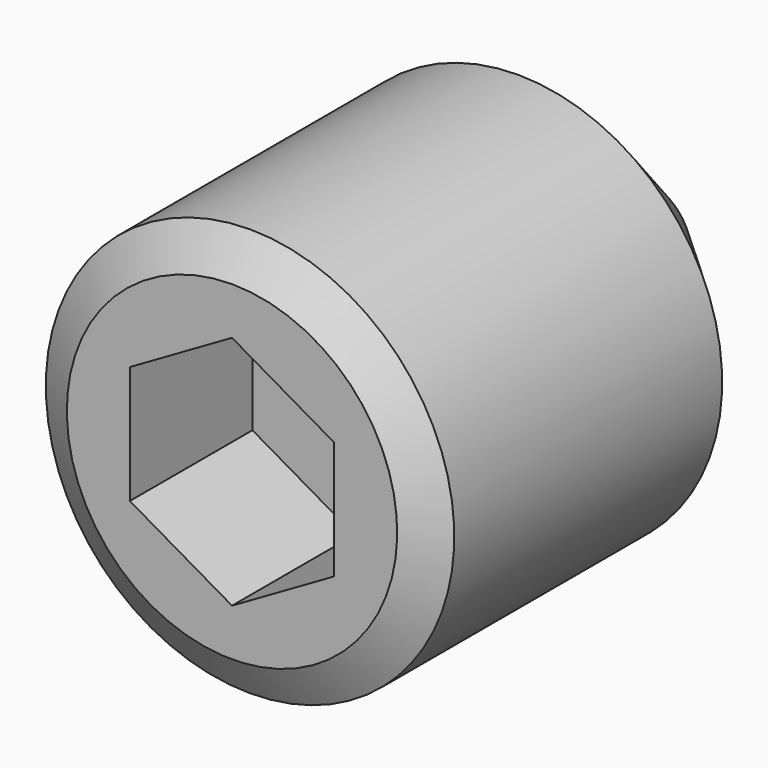
from build123d import *

# Parameters (mm, degrees)
POCKET_DEPTH = 3


with BuildPart() as part:
    # Sketch → Revolution (revolve)
    with BuildSketch(Plane.YZ):
        Polygon((0, 0), (0, 3.235), (0.441673, 4), (7, 4), (10, 1), (10, 0), align=None)
    revolve(axis=Axis((0, 0, 0), (0, 1, 0)))

    # Sketch001 → Pocket (cut)
    with BuildSketch(Plane(origin=(0, 0, 0), x_dir=(0, 0, -1), z_dir=(0, -1, 0))):
        Polygon((-1.154701, -2), (1.154701, -2), (2.309401, 0), (1.154701, 2), (-1.154701, 2), (-2.309401, 0), align=None)
    extrude(amount=-POCKET_DEPTH, mode=Mode.SUBTRACT)


solid = part.part
